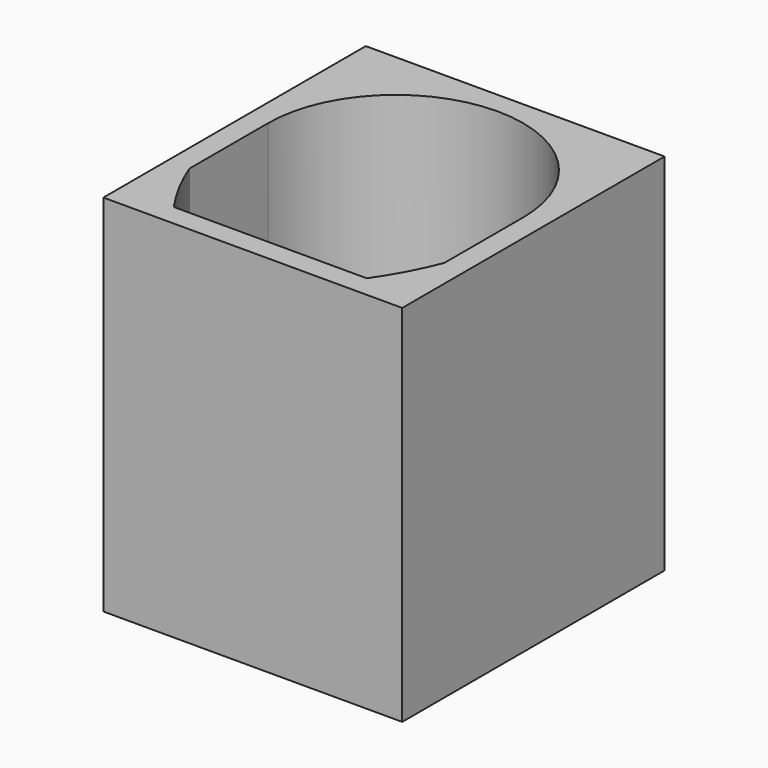
from build123d import *

# Parameters (mm, degrees)
F1_DEPTH = 50


with BuildPart() as f1:
    # F0 (on Top) → F1 (new body)
    with BuildSketch(Plane.XY):
        Polygon((-3, 42), (-3, -3), (30.740852, -3), (38, -3), (38, 8), (38, 42), (17.5, 42), align=None)
        with BuildLine():
            Line((35, 21.5), (35, 8))
            ThreePointArc((35, 8), (33.112912, 3.870902), (30.740852, 0))
            Line((30.740852, 0), (4.259148, 0))
            ThreePointArc((4.259148, 0), (1.887088, 3.870902), (0, 8))
            Line((0, 8), (0, 21.5))
            ThreePointArc((0, 21.5), (17.5, 39), (35, 21.5))
        make_face(mode=Mode.SUBTRACT)
    extrude(amount=F1_DEPTH)


solid = f1.part
